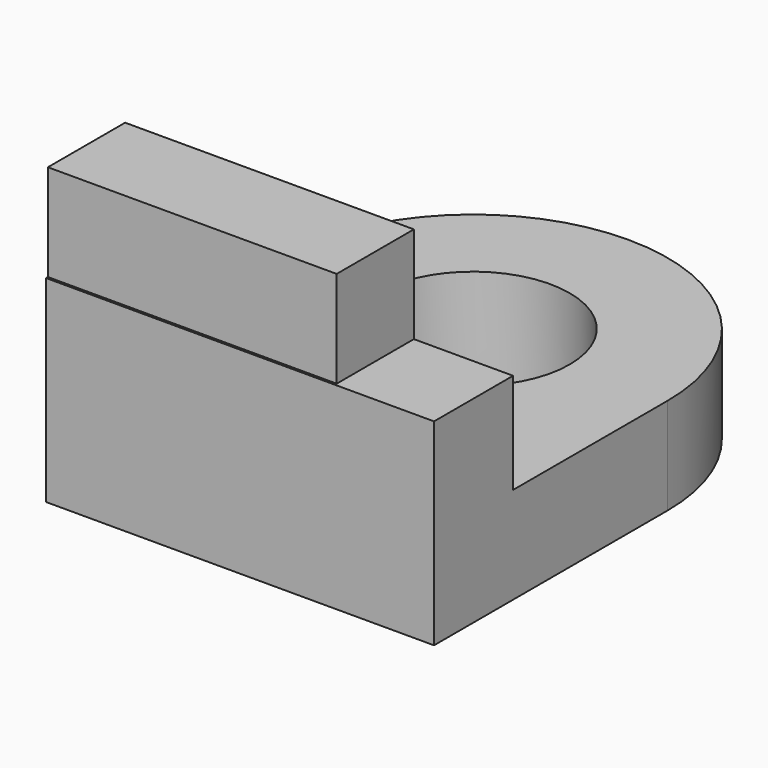
from build123d import *

# Parameters (mm, degrees)
F0_W      = 12.9794
F0_H      = 25.908
F1_DEPTH  = 25.4889
F2_W      = 38.1
F2_H      = 12.7
F3_DEPTH  = 6.35
F6_W      = 37.945812
F6_H      = 12.68057
F7_DEPTH  = 12.7
F8_W      = 50.9778
F8_H      = 12.7
F9_DEPTH  = 50.8
F10_R     = 12.7
F11_DEPTH = 12.701
F12_R     = 25.4


with BuildPart() as f1:
    # F0 (on Right) → F1 (new body, symmetric)
    with BuildSketch(Plane.YZ):
        with Locations((30.203413, 4.414101)):
            Rectangle(F0_W, F0_H)
    extrude(amount=F1_DEPTH, both=True)

    # F6 (on face) → F7 (join)
    with BuildSketch(Plane.XY.offset(17.368101)):
        with Locations((-6.515994, 30.352828)):
            Rectangle(F6_W, F6_H)
    extrude(amount=F7_DEPTH)

    # F8 (on face) → F9 (join)
    with BuildSketch(Plane(origin=(0, 36.693113, 0), x_dir=(-1, 0, 0), z_dir=(0, 1, 0))):
        with Locations((0, -2.189899)):
            Rectangle(F8_W, F8_H)
    extrude(amount=F9_DEPTH)

    # F10 (on face) → F11 (cut, through all)
    with BuildSketch(Plane.XY.offset(4.160101)):
        with Locations((-0.0889, 62.093113)):
            Circle(F10_R)
    extrude(amount=-F11_DEPTH, mode=Mode.SUBTRACT)

    # F12
    f12_edges = [f1.edges().sort_by_distance(p)[0] for p in [
        (-25.4889, 87.493113, -2.189899),
        (25.4889, 87.493113, -2.189899),
    ]]
    fillet(f12_edges, radius=F12_R)


with BuildPart() as f3:
    # F2 (on Front) → F3 (new body, symmetric)
    with BuildSketch(Plane.XZ):
        with Locations((6.389182, 23.830109)):
            Rectangle(F2_W, F2_H)
    extrude(amount=F3_DEPTH, both=True)


solid = f1.part
